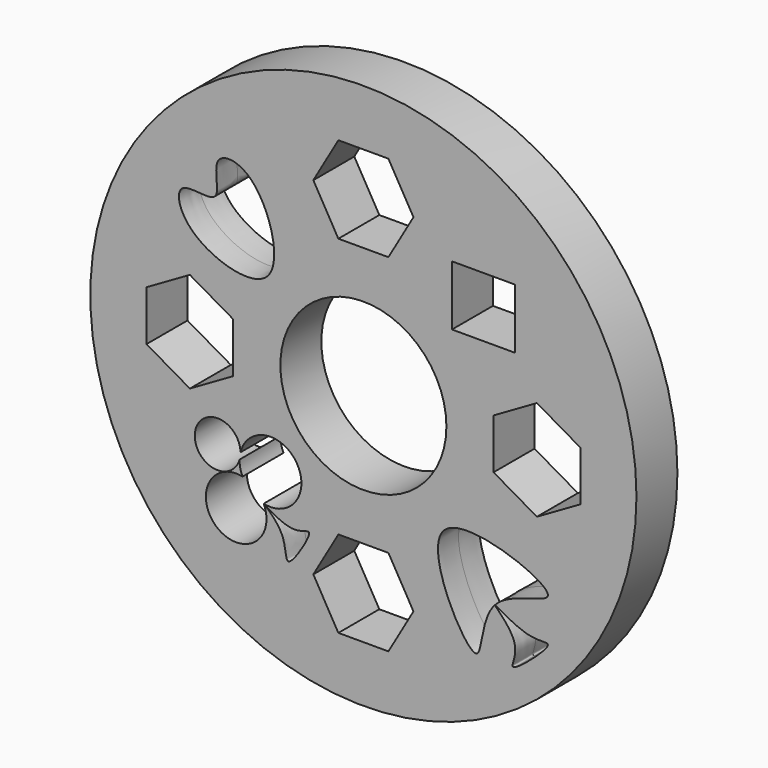
from build123d import *

# Parameters (mm, degrees)
F0_R     = 40
F0_R_2   = 12.16
F1_DEPTH = 3.75
F2_W     = 9.2109944671
F2_H     = 8.7923128158
F3_DEPTH = 12.5


with BuildPart() as f1:
    # F0 (on Front) → F1 (new body, symmetric)
    with BuildSketch(Plane.XZ):
        Circle(F0_R)
        Polygon((3.6661742094, -31.7667113453), (-3.6661742094, -31.7667113453), (-7.3323484187, -25.4167113453), (-3.6661742094, -19.0667113453), (3.6661742094, -19.0667113453), (7.3323484187, -25.4167113453), align=None, mode=Mode.SUBTRACT)
        Polygon((-31.7667113453, -3.6661742094), (-31.7667113453, 3.6661742094), (-25.4167113453, 7.3323484187), (-19.0667113453, 3.6661742094), (-19.0667113453, -3.6661742094), (-25.4167113453, -7.3323484187), align=None, mode=Mode.SUBTRACT)
        Circle(F0_R_2, mode=Mode.SUBTRACT)
        Polygon((31.7667113453, 3.6661742094), (31.7667113453, -3.6661742094), (25.4167113453, -7.3323484187), (19.0667113453, -3.6661742094), (19.0667113453, 3.6661742094), (25.4167113453, 7.3323484187), align=None, mode=Mode.SUBTRACT)
        Polygon((7.3323484187, 25.4167113453), (3.6661742094, 19.0667113453), (-3.6661742094, 19.0667113453), (-7.3323484187, 25.4167113453), (-3.6661742094, 31.7667113453), (3.6661742094, 31.7667113453), align=None, mode=Mode.SUBTRACT)
    extrude(amount=F1_DEPTH, both=True)

    # F2 (on Front) → F3 (cut, symmetric)
    with BuildSketch(Plane.XZ):
        with BuildLine():
            add(Edge.make_bspline(
                [(-14.0263978392, 10.885162279), (-16.1750484941, 8.5528996824), (-26.3307910618, 11.5190339858), (-28.0493976083, 19.8662527558), (-19.9472050348, 16.8593011636), (-22.948121584, 24.5384371593), (-15.0079925213, 24.3765924116), (-11.7933814709, 13.3090000218), (-14.0263978392, 10.885162279)],
                knots=[0, 0, 0, 0, 0.2158985932, 0.3618541865, 0.4997775835, 0.6377009203, 0.7756242545, 1, 1, 1, 1], degree=3))
        make_face()
        with BuildLine():
            add(Edge.make_bspline(
                [(19.264442186, -20.719137506), (19.2613139614, -20.7202763136), (19.2594207826, -20.7223205667), (19.2587953061, -20.7253042608)],
                knots=[0.9952709962, 0.9952709962, 0.9952709962, 0.9952709962, 1, 1, 1, 1], degree=3))
            add(Edge.make_bspline(
                [(19.264442186, -20.719137506), (19.2625579035, -20.7211914541), (19.2606756088, -20.7232470384), (19.2587953061, -20.7253042608)],
                knots=[0.9998316119, 0.9998316119, 0.9998316119, 0.9998316119, 1, 1, 1, 1], degree=3))
        make_face()
        with BuildLine():
            add(Edge.make_bspline(
                [(19.264442186, -20.719137506), (19.2625579035, -20.7211914541), (19.2606756088, -20.7232470384), (19.2587953061, -20.7253042608)],
                knots=[0.9998316119, 0.9998316119, 0.9998316119, 0.9998316119, 1, 1, 1, 1], degree=3))
            add(Edge.make_bspline(
                [(19.2587953061, -20.7253042608), (19.2304417512, -20.8605584731), (23.7608250067, -24.4925880863), (20.0436777862, -30.0781193541), (29.1492736398, -22.2124087131), (24.2358959096, -23.9317462256), (19.4113057777, -20.6656728772), (19.264442186, -20.719137506)],
                knots=[0, 0, 0, 0, 0.2143710611, 0.3769152484, 0.6219259207, 0.7732541748, 0.9952709962, 0.9952709962, 0.9952709962, 0.9952709962], degree=3))
        make_face()
        with BuildLine():
            add(Edge.make_bspline(
                [(19.2587953061, -20.7253042608), (16.9712445046, -23.22809329), (18.5535518841, -35.0252971863), (3.115302268, -5.9398659464), (35.1743542063, -18.2498723907), (21.7006839643, -18.063530304), (19.264442186, -20.719137506)],
                knots=[0, 0, 0, 0, 0.2048586621, 0.4904682588, 0.7821179231, 0.9998316119, 0.9998316119, 0.9998316119, 0.9998316119], degree=3))
            add(Edge.make_bspline(
                [(19.264442186, -20.719137506), (19.2613139614, -20.7202763136), (19.2594207826, -20.7223205667), (19.2587953061, -20.7253042608)],
                knots=[0.9952709962, 0.9952709962, 0.9952709962, 0.9952709962, 1, 1, 1, 1], degree=3))
        make_face()
        with Locations((17.5840640441, 17.1653823927)):
            Rectangle(F2_W, F2_H)
        with BuildLine():
            ThreePointArc((-18.1348870057, -14.116656497), (-18.0367886251, -13.657448625), (-18.0038735271, -13.1890345365))
            ThreePointArc((-18.0038735271, -13.1890345365), (-18.0039335435, -13.16898358), (-18.0041135906, -13.1489333421))
            ThreePointArc((-18.0041135906, -13.1489333421), (-18.0956599845, -13.6292598264), (-18.1348870057, -14.116656497))
        make_face()
        with BuildLine():
            ThreePointArc((-18.0041135906, -13.1489333421), (-18.0039335435, -13.16898358), (-18.0038735271, -13.1890345365))
            ThreePointArc((-18.0038735271, -13.1890345365), (-18.0367886251, -13.657448625), (-18.1348870057, -14.116656497))
            ThreePointArc((-18.1348870057, -14.116656497), (-18.038866186, -15.1708138976), (-17.7007637653, -16.1738864654))
            ThreePointArc((-17.7007637653, -16.1738864654), (-15.8577551211, -17.0482866886), (-14.600118569, -18.6544021626))
            ThreePointArc((-14.600118569, -18.6544021626), (-10.7779535431, -17.7715392599), (-9.0789813415, -14.2357386649))
            ThreePointArc((-9.0789813415, -14.2357386649), (-13.0603005726, -9.7402094559), (-18.0041135906, -13.1489333421))
        make_face()
        with BuildLine():
            ThreePointArc((-18.1348870057, -14.116656497), (-18.0956599845, -13.6292598264), (-18.0041135906, -13.1489333421))
            ThreePointArc((-18.0041135906, -13.1489333421), (-24.6726095087, -12.7404827568), (-18.1348870057, -14.116656497))
        make_face()
        with BuildLine():
            ThreePointArc((-14.6021271557, -18.6539505682), (-16.4375993363, -17.771444306), (-17.7007637653, -16.1738864654))
            ThreePointArc((-17.7007637653, -16.1738864654), (-22.0855610784, -23.3075288047), (-14.1911033206, -20.5159634352))
            ThreePointArc((-14.1911033206, -20.5159634352), (-14.2942219739, -19.5645310071), (-14.5987889433, -18.657284578))
            add(Edge.make_bspline(
                [(-14.6021271557, -18.6539505682), (-14.6017970883, -18.6544854272), (-14.6006756653, -18.6555998918), (-14.5987889433, -18.657284578)],
                knots=[0.0047036013, 0.0047036013, 0.0047036013, 0.0047036013, 0.0088188322, 0.0088188322, 0.0088188322, 0.0088188322], degree=3))
        make_face()
        with BuildLine():
            ThreePointArc((-14.600118569, -18.6544021626), (-15.8577551211, -17.0482866886), (-17.7007637653, -16.1738864654))
            ThreePointArc((-17.7007637653, -16.1738864654), (-16.4375993363, -17.771444306), (-14.6021271557, -18.6539505682))
            add(Edge.make_bspline(
                [(-14.600118569, -18.6544021626), (-14.6018478541, -18.6534850993), (-14.6025044141, -18.6533392385), (-14.6021271557, -18.6539505682)],
                knots=[0, 0, 0, 0, 0.0047036013, 0.0047036013, 0.0047036013, 0.0047036013], degree=3))
        make_face()
        with BuildLine():
            add(Edge.make_bspline(
                [(-14.5987889433, -18.657284578), (-14.5087950863, -18.7376416278), (-10.9589931774, -21.4083751661), (-11.8239091382, -27.4398793306), (-6.4702414511, -18.6902564438), (-10.3897184334, -21.6401388226), (-14.5192014732, -18.6973135932), (-14.600118569, -18.6544021626)],
                knots=[0.0088188322, 0.0088188322, 0.0088188322, 0.0088188322, 0.2051092794, 0.3893376888, 0.6259290203, 0.7799080427, 1, 1, 1, 1], degree=3))
            ThreePointArc((-14.600118569, -18.6544021626), (-14.5994534986, -18.6558432515), (-14.5987889433, -18.657284578))
        make_face()
        with BuildLine():
            ThreePointArc((-14.5987889433, -18.657284578), (-14.5994534986, -18.6558432515), (-14.600118569, -18.6544021626))
            ThreePointArc((-14.600118569, -18.6544021626), (-14.601122888, -18.6541764796), (-14.6021271557, -18.6539505682))
            add(Edge.make_bspline(
                [(-14.6021271557, -18.6539505682), (-14.6017970883, -18.6544854272), (-14.6006756653, -18.6555998918), (-14.5987889433, -18.657284578)],
                knots=[0.0047036013, 0.0047036013, 0.0047036013, 0.0047036013, 0.0088188322, 0.0088188322, 0.0088188322, 0.0088188322], degree=3))
        make_face()
        with BuildLine():
            ThreePointArc((-14.6021271557, -18.6539505682), (-14.601122888, -18.6541764796), (-14.600118569, -18.6544021626))
            add(Edge.make_bspline(
                [(-14.600118569, -18.6544021626), (-14.6018478541, -18.6534850993), (-14.6025044141, -18.6533392385), (-14.6021271557, -18.6539505682)],
                knots=[0, 0, 0, 0, 0.0047036013, 0.0047036013, 0.0047036013, 0.0047036013], degree=3))
        make_face()
    extrude(amount=F3_DEPTH, both=True, mode=Mode.SUBTRACT)


solid = f1.part
